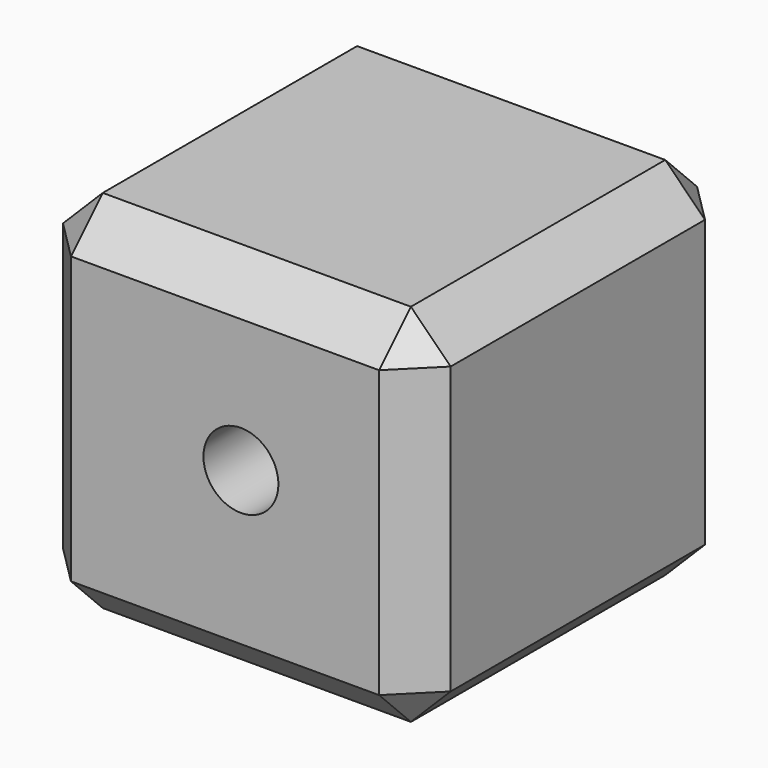
from build123d import *

# Parameters (mm, degrees)
F0_W     = 48.771314
F0_H     = 45.987077
F1_DEPTH = 50
F2_SIZE  = 5
F3_R     = 4.711226
F4_DEPTH = 50.001


with BuildPart() as f1:
    # F0 (on Front) → F1 (new body)
    with BuildSketch(Plane.XZ):
        with Locations((24.385657, 22.993538)):
            Rectangle(F0_W, F0_H)
    extrude(amount=F1_DEPTH)

    # F2
    f2_edges = [f1.edges().sort_by_distance(p)[0] for p in [
        (0, -50, 22.993539),
        (24.385657, -50, 0),
        (48.771314, -50, 22.993539),
        (24.385657, -50, 45.987077),
        (48.771314, -25, 0),
        (48.771314, -25, 45.987077),
        (48.771314, 0, 22.993539),
        (0, -25, 45.987077),
        (24.385657, 0, 45.987077),
        (0, -25, 0),
        (24.385657, 0, 0),
        (0, 0, 22.993539),
    ]]
    chamfer(f2_edges, length=F2_SIZE)

    # F3 (on face) → F4 (cut, through all)
    with BuildSketch(Plane(origin=(0, 0, 0), x_dir=(-1, 0, 0), z_dir=(0, 1, 0))):
        with Locations((-26.383946, 24.235671)):
            Circle(F3_R)
    extrude(amount=-F4_DEPTH, mode=Mode.SUBTRACT)


solid = f1.part
